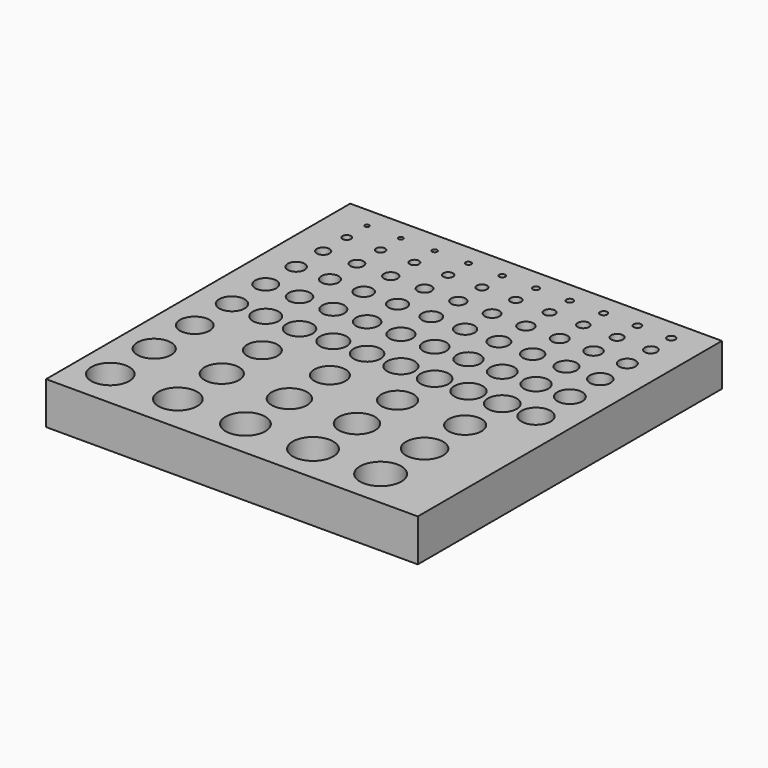
from build123d import *

# Parameters (mm, degrees)
F0_W     = 88
F0_H     = 90
F0_R     = 4.5
F0_R_2   = 4
F0_R_3   = 4.6
F0_R_4   = 4.7
F0_R_5   = 4.1
F0_R_6   = 4.2
F0_R_7   = 3.5
F0_R_8   = 3.6
F0_R_9   = 3.7
F0_R_10  = 4.8
F0_R_11  = 4.3
F0_R_12  = 4.9
F0_R_13  = 4.4
F0_R_14  = 3.8
F0_R_15  = 3.9
F0_R_16  = 3
F0_R_17  = 2.5
F0_R_18  = 3.05
F0_R_19  = 2.55
F0_R_20  = 2
F0_R_21  = 2.05
F0_R_22  = 3.1
F0_R_23  = 3.15
F0_R_24  = 2.6
F0_R_25  = 2.65
F0_R_26  = 3.2
F0_R_27  = 2.7
F0_R_28  = 2.1
F0_R_29  = 2.15
F0_R_30  = 2.2
F0_R_31  = 1.5
F0_R_32  = 1.55
F0_R_33  = 1
F0_R_34  = 0.5
F0_R_35  = 1.05
F0_R_36  = 0.55
F0_R_37  = 1.6
F0_R_38  = 1.65
F0_R_39  = 1.7
F0_R_40  = 1.1
F0_R_41  = 1.15
F0_R_42  = 0.6
F0_R_43  = 0.65
F0_R_44  = 1.2
F0_R_45  = 0.7
F0_R_46  = 3.25
F0_R_47  = 2.75
F0_R_48  = 3.3
F0_R_49  = 3.35
F0_R_50  = 2.8
F0_R_51  = 2.85
F0_R_52  = 2.25
F0_R_53  = 2.3
F0_R_54  = 2.35
F0_R_55  = 3.4
F0_R_56  = 2.9
F0_R_57  = 3.45
F0_R_58  = 2.95
F0_R_59  = 2.4
F0_R_60  = 2.45
F0_R_61  = 1.75
F0_R_62  = 1.8
F0_R_63  = 1.85
F0_R_64  = 1.25
F0_R_65  = 0.75
F0_R_66  = 1.3
F0_R_67  = 1.35
F0_R_68  = 0.8
F0_R_69  = 0.85
F0_R_70  = 1.9
F0_R_71  = 1.95
F0_R_72  = 1.4
F0_R_73  = 0.9
F0_R_74  = 1.45
F0_R_75  = 0.95
F1_DEPTH = 10


with BuildPart() as f1:
    # F0 (on Top) → F1 (new body)
    with BuildSketch(Plane.XY):
        Rectangle(F0_W, F0_H)
        with Locations((-36, -36)):
            Circle(F0_R, mode=Mode.SUBTRACT)
        with Locations((-36, -23)):
            Circle(F0_R_2, mode=Mode.SUBTRACT)
        with Locations((-20, -36)):
            Circle(F0_R_3, mode=Mode.SUBTRACT)
        with Locations((-4, -36)):
            Circle(F0_R_4, mode=Mode.SUBTRACT)
        with Locations((-20, -23)):
            Circle(F0_R_5, mode=Mode.SUBTRACT)
        with Locations((-4, -23)):
            Circle(F0_R_6, mode=Mode.SUBTRACT)
        with Locations((-36, -11)):
            Circle(F0_R_7, mode=Mode.SUBTRACT)
        with Locations((-20, -11)):
            Circle(F0_R_8, mode=Mode.SUBTRACT)
        with Locations((-4, -11)):
            Circle(F0_R_9, mode=Mode.SUBTRACT)
        with Locations((12, -36)):
            Circle(F0_R_10, mode=Mode.SUBTRACT)
        with Locations((12, -23)):
            Circle(F0_R_11, mode=Mode.SUBTRACT)
        with Locations((28, -36)):
            Circle(F0_R_12, mode=Mode.SUBTRACT)
        with Locations((28, -23)):
            Circle(F0_R_13, mode=Mode.SUBTRACT)
        with Locations((12, -11)):
            Circle(F0_R_14, mode=Mode.SUBTRACT)
        with Locations((28, -11)):
            Circle(F0_R_15, mode=Mode.SUBTRACT)
        with Locations((-36, 0)):
            Circle(F0_R_16, mode=Mode.SUBTRACT)
        with Locations((-36, 10)):
            Circle(F0_R_17, mode=Mode.SUBTRACT)
        with Locations((-28, 0)):
            Circle(F0_R_18, mode=Mode.SUBTRACT)
        with Locations((-28, 10)):
            Circle(F0_R_19, mode=Mode.SUBTRACT)
        with Locations((-36, 19)):
            Circle(F0_R_20, mode=Mode.SUBTRACT)
        with Locations((-28, 19)):
            Circle(F0_R_21, mode=Mode.SUBTRACT)
        with Locations((-20, 0)):
            Circle(F0_R_22, mode=Mode.SUBTRACT)
        with Locations((-12, 0)):
            Circle(F0_R_23, mode=Mode.SUBTRACT)
        with Locations((-20, 10)):
            Circle(F0_R_24, mode=Mode.SUBTRACT)
        with Locations((-12, 10)):
            Circle(F0_R_25, mode=Mode.SUBTRACT)
        with Locations((-4, 0)):
            Circle(F0_R_26, mode=Mode.SUBTRACT)
        with Locations((-4, 10)):
            Circle(F0_R_27, mode=Mode.SUBTRACT)
        with Locations((-20, 19)):
            Circle(F0_R_28, mode=Mode.SUBTRACT)
        with Locations((-12, 19)):
            Circle(F0_R_29, mode=Mode.SUBTRACT)
        with Locations((-4, 19)):
            Circle(F0_R_30, mode=Mode.SUBTRACT)
        with Locations((-36, 27)):
            Circle(F0_R_31, mode=Mode.SUBTRACT)
        with Locations((-28, 27)):
            Circle(F0_R_32, mode=Mode.SUBTRACT)
        with Locations((-36, 34)):
            Circle(F0_R_33, mode=Mode.SUBTRACT)
        with Locations((-36, 40)):
            Circle(F0_R_34, mode=Mode.SUBTRACT)
        with Locations((-28, 34)):
            Circle(F0_R_35, mode=Mode.SUBTRACT)
        with Locations((-28, 40)):
            Circle(F0_R_36, mode=Mode.SUBTRACT)
        with Locations((-20, 27)):
            Circle(F0_R_37, mode=Mode.SUBTRACT)
        with Locations((-12, 27)):
            Circle(F0_R_38, mode=Mode.SUBTRACT)
        with Locations((-4, 27)):
            Circle(F0_R_39, mode=Mode.SUBTRACT)
        with Locations((-20, 34)):
            Circle(F0_R_40, mode=Mode.SUBTRACT)
        with Locations((-12, 34)):
            Circle(F0_R_41, mode=Mode.SUBTRACT)
        with Locations((-20, 40)):
            Circle(F0_R_42, mode=Mode.SUBTRACT)
        with Locations((-12, 40)):
            Circle(F0_R_43, mode=Mode.SUBTRACT)
        with Locations((-4, 34)):
            Circle(F0_R_44, mode=Mode.SUBTRACT)
        with Locations((-4, 40)):
            Circle(F0_R_45, mode=Mode.SUBTRACT)
        with Locations((4, 0)):
            Circle(F0_R_46, mode=Mode.SUBTRACT)
        with Locations((4, 10)):
            Circle(F0_R_47, mode=Mode.SUBTRACT)
        with Locations((12, 0)):
            Circle(F0_R_48, mode=Mode.SUBTRACT)
        with Locations((20, 0)):
            Circle(F0_R_49, mode=Mode.SUBTRACT)
        with Locations((12, 10)):
            Circle(F0_R_50, mode=Mode.SUBTRACT)
        with Locations((20, 10)):
            Circle(F0_R_51, mode=Mode.SUBTRACT)
        with Locations((4, 19)):
            Circle(F0_R_52, mode=Mode.SUBTRACT)
        with Locations((12, 19)):
            Circle(F0_R_53, mode=Mode.SUBTRACT)
        with Locations((20, 19)):
            Circle(F0_R_54, mode=Mode.SUBTRACT)
        with Locations((28, 0)):
            Circle(F0_R_55, mode=Mode.SUBTRACT)
        with Locations((28, 10)):
            Circle(F0_R_56, mode=Mode.SUBTRACT)
        with Locations((36, 0)):
            Circle(F0_R_57, mode=Mode.SUBTRACT)
        with Locations((36, 10)):
            Circle(F0_R_58, mode=Mode.SUBTRACT)
        with Locations((28, 19)):
            Circle(F0_R_59, mode=Mode.SUBTRACT)
        with Locations((36, 19)):
            Circle(F0_R_60, mode=Mode.SUBTRACT)
        with Locations((4, 27)):
            Circle(F0_R_61, mode=Mode.SUBTRACT)
        with Locations((12, 27)):
            Circle(F0_R_62, mode=Mode.SUBTRACT)
        with Locations((20, 27)):
            Circle(F0_R_63, mode=Mode.SUBTRACT)
        with Locations((4, 34)):
            Circle(F0_R_64, mode=Mode.SUBTRACT)
        with Locations((4, 40)):
            Circle(F0_R_65, mode=Mode.SUBTRACT)
        with Locations((12, 34)):
            Circle(F0_R_66, mode=Mode.SUBTRACT)
        with Locations((20, 34)):
            Circle(F0_R_67, mode=Mode.SUBTRACT)
        with Locations((12, 40)):
            Circle(F0_R_68, mode=Mode.SUBTRACT)
        with Locations((20, 40)):
            Circle(F0_R_69, mode=Mode.SUBTRACT)
        with Locations((28, 27)):
            Circle(F0_R_70, mode=Mode.SUBTRACT)
        with Locations((36, 27)):
            Circle(F0_R_71, mode=Mode.SUBTRACT)
        with Locations((28, 34)):
            Circle(F0_R_72, mode=Mode.SUBTRACT)
        with Locations((28, 40)):
            Circle(F0_R_73, mode=Mode.SUBTRACT)
        with Locations((36, 34)):
            Circle(F0_R_74, mode=Mode.SUBTRACT)
        with Locations((36, 40)):
            Circle(F0_R_75, mode=Mode.SUBTRACT)
    extrude(amount=F1_DEPTH)


solid = f1.part
